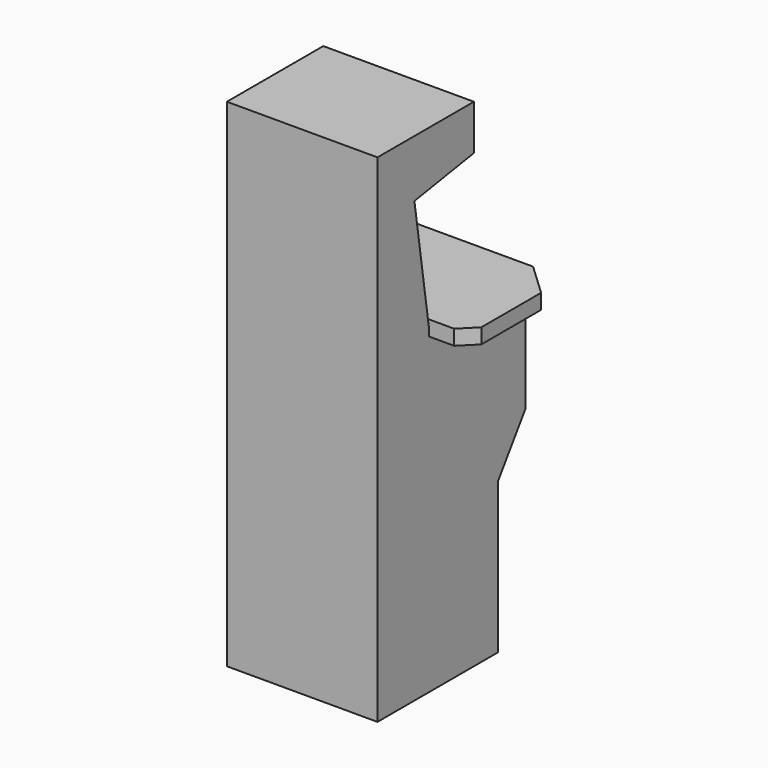
from build123d import *

# Parameters (mm, degrees)
F1_DEPTH = 25.4
F3_DEPTH = 2.54
F4_SIZE  = 5.08
F5_DEPTH = 25.4


with BuildPart() as f1:
    # F0 (on Right) → F1 (new body, symmetric)
    with BuildSketch(Plane.YZ):
        Polygon((-14.806319427, 59.3731885201), (-55.446319427, 59.3731885201), (-55.446319427, -108.2668114799), (-4.646319427, -108.2668114799), (-4.646319427, -57.4668114799), (6.8900182168, -40.7391304162), (6.8900182168, -0.0991304162), (-33.7499817832, -0.0991304162), (-39.8801730554, 40.0758662231), (-14.806319427, 44.1331885201), align=None)
    extrude(amount=F1_DEPTH, both=True)

    # F2 (on face) → F3 (join, symmetric)
    with BuildSketch(Plane.XY.offset(-0.0991304162)):
        Polygon((-37.2138172336, -33.7499817832), (38.9861827664, -33.7499817832), (38.9861827664, -3.4425283198), (28.0170366168, 6.8900182168), (-37.2138172336, 6.8900182168), align=None)
    extrude(amount=F3_DEPTH, both=True)

    # F4
    f4_edges = [f1.edges().sort_by_distance(p)[0] for p in [
        (38.986183, -33.749982, -0.09913),
    ]]
    chamfer(f4_edges, length=F4_SIZE)

    # F0 (on Right) → F5 (join)
    with BuildSketch(Plane.YZ):
        Polygon((-14.806319427, 59.3731885201), (-55.446319427, 59.3731885201), (-55.446319427, -108.2668114799), (-4.646319427, -108.2668114799), (-4.646319427, -57.4668114799), (6.8900182168, -40.7391304162), (6.8900182168, -0.0991304162), (-33.7499817832, -0.0991304162), (-39.8801730554, 40.0758662231), (-14.806319427, 44.1331885201), align=None)
    extrude(amount=F5_DEPTH)


solid = f1.part
